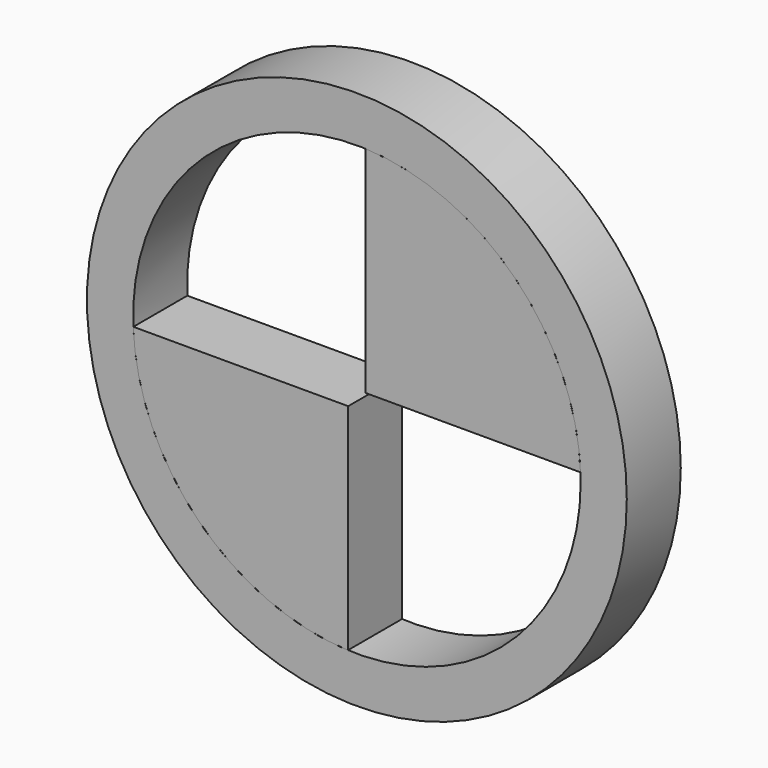
from build123d import *

# Parameters (mm, degrees)
F0_R     = 12.7
F1_DEPTH = 3.175
F2_R     = 10.529660326
F3_DEPTH = 25.4
F5_DEPTH = 3.175


with BuildPart() as f1:
    # F0 (on Front) → F1 (new body)
    with BuildSketch(Plane.XZ):
        Circle(F0_R)
    extrude(amount=F1_DEPTH)

    # F2 (on face) → F3 (cut)
    with BuildSketch(Plane.XZ.offset(3.175)):
        Circle(F2_R)
    extrude(amount=-F3_DEPTH, mode=Mode.SUBTRACT)


with BuildPart() as f5:
    # F4 (on face) → F5 (new body)
    with BuildSketch(Plane.XZ.offset(3.175)):
        with BuildLine():
            Line((0.4095073219, 10.5216942711), (0.4095073219, 0.4073120146))
            Line((0.4095073219, 0.4073120146), (10.5217794837, 0.4073120146))
            ThreePointArc((10.5217794837, 0.4073120146), (7.4463709224, 7.4448174368), (0.4095073219, 10.5216942711))
        make_face()
    extrude(amount=-F5_DEPTH)


with BuildPart() as f5b:
    # F4 (on face) → F5, piece 2 (new body)
    with BuildSketch(Plane.XZ.offset(3.175)):
        with BuildLine():
            ThreePointArc((-10.5217794837, -0.4073120146), (-7.4463709224, -7.4448174368), (-0.4095073219, -10.5216942711))
            Line((-0.4095073219, -10.5216942711), (-0.4095073219, -0.4073120146))
            Line((-0.4095073219, -0.4073120146), (-10.5217794837, -0.4073120146))
        make_face()
    extrude(amount=-F5_DEPTH)


solid = Compound([f1.part, f5.part, f5b.part])
